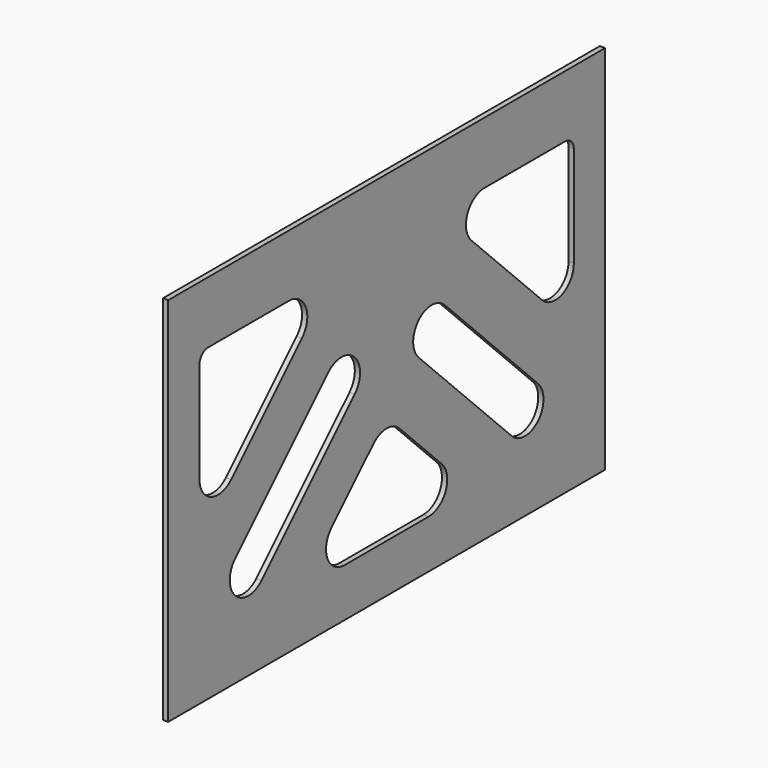
from build123d import *

# Parameters (mm, degrees)
SKETCH001_W  = 448.31
SKETCH001_H  = 304.8
PAD_DEPTH    = 4.318
POCKET_DEPTH = 1088.576426


with BuildPart() as part:
    # Sketch001 → Pad (new body)
    with BuildSketch(Plane.YZ):
        with Locations((0, 101.6)):
            Rectangle(SKETCH001_W, SKETCH001_H)
    extrude(amount=PAD_DEPTH)

    # Sketch (on Face6 of Pad) → Pocket (cut, through all)
    with BuildSketch(Plane.YZ.offset(4.318)):
        with BuildLine():
            ThreePointArc((-32.844781, 108.076032), (-32.844781, 135.0168), (-59.785549, 135.0168))
            Line((-59.785549, 135.0168), (-155.38703, 39.41532))
            ThreePointArc((-155.38703, 39.41532), (-155.38703, 12.474551), (-128.446262, 12.474551))
            Line((-32.844781, 108.076032), (-128.446262, 12.474551))
        make_face()
        with BuildLine():
            Line((-13.470384, 64.588636), (-56.59327, 21.46575))
            ThreePointArc((-56.59327, 21.46575), (-60.722791, 0.705246), (-43.122886, -11.054634))
            Line((-43.122886, -11.054634), (0, -11.054634))
            Line((0, 70.168252), (0, -11.054634))
            ThreePointArc((0, 70.168252), (-7.290119, 68.718157), (-13.470384, 64.588636))
        make_face()
        with BuildLine():
            Line((-183.066243, 203.2), (-100.454911, 203.2))
            ThreePointArc((-86.984527, 170.679616), (-82.855006, 191.440119), (-100.454911, 203.2))
            Line((-86.984527, 170.679616), (-159.575036, 98.089107))
            ThreePointArc((-192.09542, 111.559491), (-180.33554, 93.959586), (-159.575036, 98.089107))
            Line((-192.09542, 111.559491), (-192.09542, 194.170823))
            ThreePointArc((-183.066243, 203.2), (-189.450836, 200.555415), (-192.09542, 194.170823))
        make_face()
    pocket = extrude(amount=-POCKET_DEPTH, mode=Mode.SUBTRACT)

    # Mirrored: Pocket across Sketch V_Axis
    add(pocket.mirror(Plane(origin=(4.318, 0, 0), x_dir=(1, 0, 0), z_dir=(0, 1, 0))), mode=Mode.SUBTRACT)


solid = part.part
